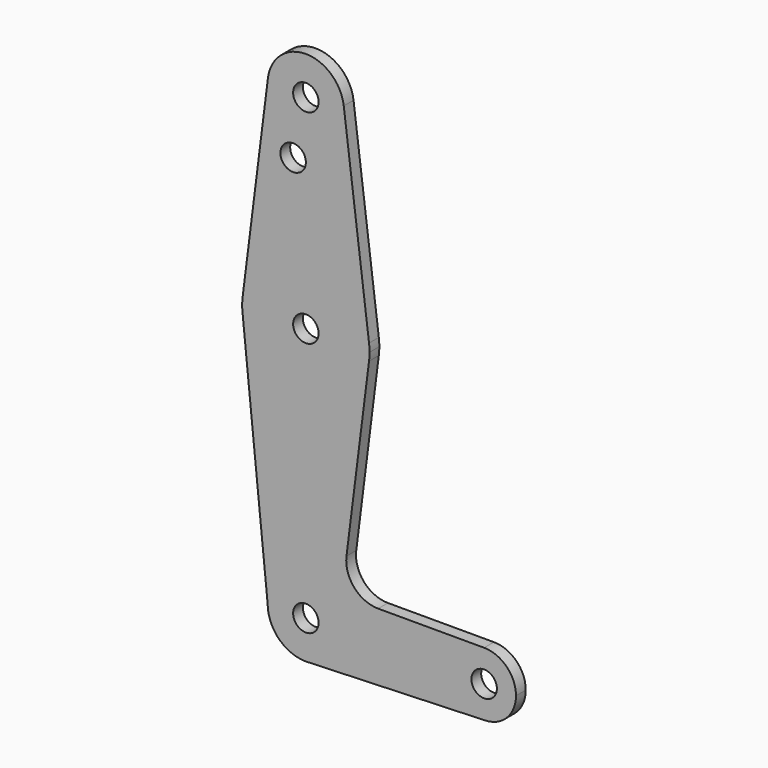
from build123d import *

# Parameters (mm, degrees)
F0_R     = 3.175
F1_DEPTH = 3.048


with BuildPart() as f1:
    # F0 (on Front) → F1 (new body)
    with BuildSketch(Plane.XZ):
        with BuildLine():
            ThreePointArc((-9.450293, 115.490625), (-0.596483, 104.793695), (9.525, 114.3))
            ThreePointArc((9.525, 114.3), (9.506305, 114.896483), (9.450293, 115.490625))
            ThreePointArc((9.450293, 115.490625), (0, 123.825), (-9.450293, 115.490625))
        make_face()
        with Locations((0, 114.3)):
            Circle(F0_R, mode=Mode.SUBTRACT)
        with BuildLine():
            ThreePointArc((9.450293, 115.490625), (9.506305, 114.896483), (9.525, 114.3))
            ThreePointArc((9.525, 114.3), (-0.596483, 104.793695), (-9.450293, 115.490625))
            Line((-9.450293, 115.490625), (-15.750488, 65.484375))
            ThreePointArc((-15.750488, 65.484375), (0, 79.375), (15.750488, 65.484375))
            Line((15.750488, 65.484375), (9.450293, 115.490625))
        make_face()
        with Locations((-3.175, 100.0252)):
            Circle(F0_R, mode=Mode.SUBTRACT)
        with BuildLine():
            ThreePointArc((15.875, 63.5), (15.843841, 64.494139), (15.750488, 65.484375))
            ThreePointArc((15.750488, 65.484375), (0, 79.375), (-15.750488, 65.484375))
            Line((-15.750488, 65.484375), (-15.750488, 61.515625))
            ThreePointArc((-15.750488, 61.515625), (0, 47.625), (15.750488, 61.515625))
            ThreePointArc((15.750488, 61.515625), (15.843841, 62.505861), (15.875, 63.5))
        make_face()
        with Locations((0, 63.5)):
            Circle(F0_R, mode=Mode.SUBTRACT)
        with BuildLine():
            Line((-15.750488, 61.515625), (-15.750488, 65.484375))
            ThreePointArc((-15.750488, 65.484375), (-15.875, 63.5), (-15.750488, 61.515625))
        make_face()
        with BuildLine():
            ThreePointArc((15.750488, 61.515625), (0, 47.625), (-15.750488, 61.515625))
            Line((-15.750488, 61.515625), (-9.525, 0))
            ThreePointArc((-9.525, 0), (0, 9.525), (9.525, 0))
            ThreePointArc((9.525, 0), (6.970557, -6.491299), (0.677344, -9.500886))
            Line((0.677344, -9.500886), (44.732405, -7.932475))
            ThreePointArc((44.732405, -7.932475), (36.513756, -0.141225), (44.45, 7.9375))
            Line((44.45, 7.9375), (18.014958, 7.9375))
            ThreePointArc((18.014958, 7.9375), (12.052308, 10.629137), (10.127114, 16.881475))
            Line((10.127114, 16.881475), (15.750488, 61.515625))
        make_face()
        with BuildLine():
            ThreePointArc((9.525, 0), (0, 9.525), (-9.525, 0))
            ThreePointArc((-9.525, 0), (-6.735192, -6.735192), (0, -9.525))
            Line((0, -9.525), (0.677344, -9.500886))
            ThreePointArc((0.677344, -9.500886), (6.970557, -6.491299), (9.525, 0))
        make_face()
        Circle(F0_R, mode=Mode.SUBTRACT)
        with BuildLine():
            Line((0.677344, -9.500886), (0, -9.525))
            ThreePointArc((0, -9.525), (0.338886, -9.51897), (0.677344, -9.500886))
        make_face()
        with BuildLine():
            ThreePointArc((52.3875, 0), (50.06266, 5.61266), (44.45, 7.9375))
            ThreePointArc((44.45, 7.9375), (36.513756, -0.141225), (44.732405, -7.932475))
            ThreePointArc((44.732405, -7.932475), (50.161633, -5.51191), (52.3875, 0))
        make_face()
        with Locations((44.45, 0)):
            Circle(F0_R, mode=Mode.SUBTRACT)
    extrude(amount=F1_DEPTH)


solid = f1.part
